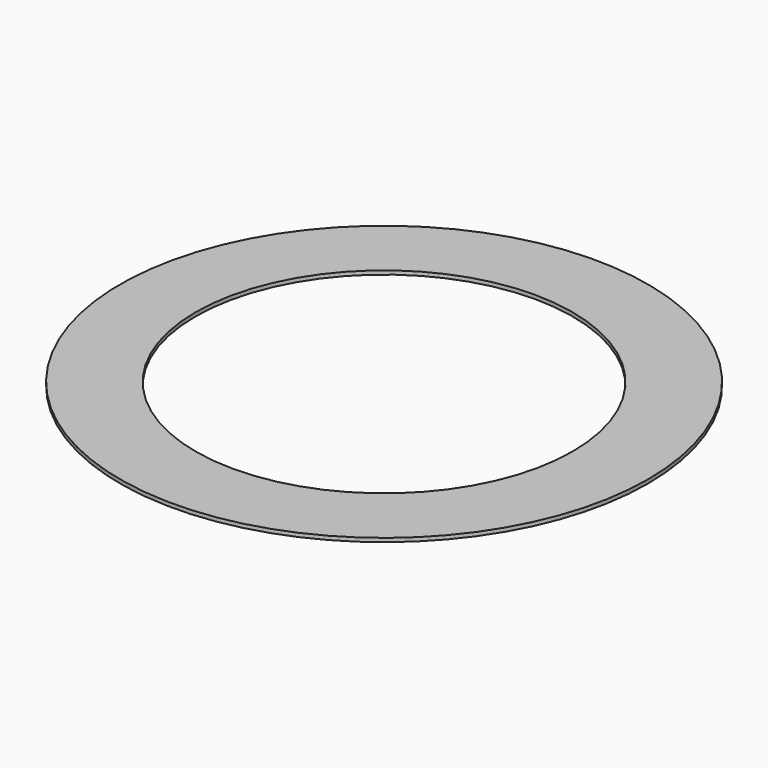
from build123d import *

# Parameters (mm, degrees)
SKETCH_R   = 21
SKETCH_R_2 = 15
PAD_DEPTH  = 0.3


with BuildPart() as part:
    # Sketch → Pad (new body)
    with BuildSketch(Plane.XY):
        Circle(SKETCH_R)
        Circle(SKETCH_R_2, mode=Mode.SUBTRACT)
    extrude(amount=PAD_DEPTH)


solid = part.part
